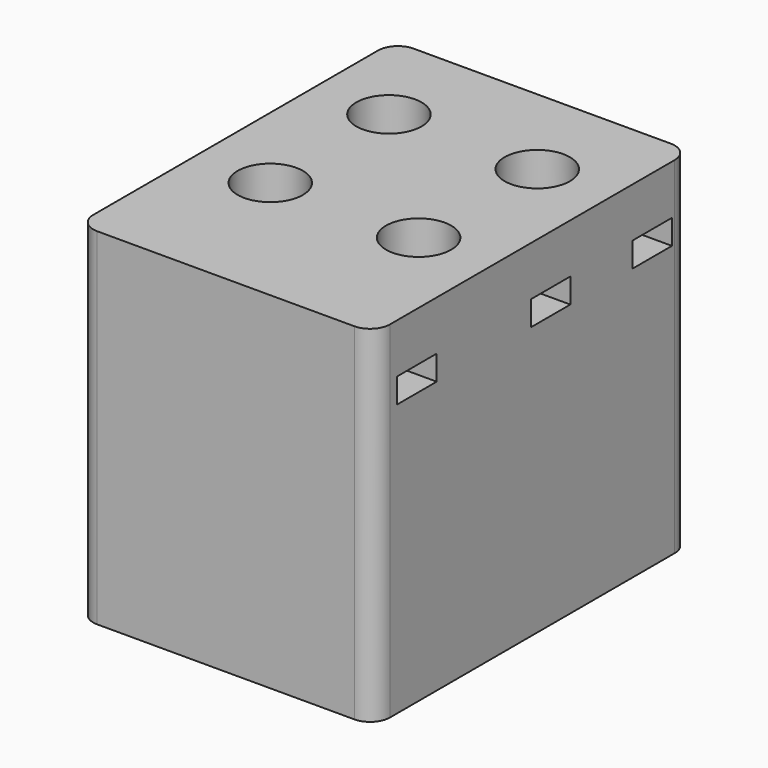
from build123d import *

# Parameters (mm, degrees)
F0_W      = 30
F0_H      = 40
F1_DEPTH  = 35
F2_R      = 3.3
F3_DEPTH  = 30
F4_W      = 5
F4_H      = 2.5
F5_DEPTH  = 30.001
F6_R      = 1.65
F7_DEPTH  = 5.001
F8_R      = 1.65
F9_DEPTH  = 5.001
F10_R     = 1.65
F11_DEPTH = 5.001
F12_R     = 1.65
F13_DEPTH = 5.001
F14_R     = 2


with BuildPart() as f1:
    # F0 (on Top) → F1 (new body)
    with BuildSketch(Plane.XY):
        with Locations((15, -20)):
            Rectangle(F0_W, F0_H)
    extrude(amount=F1_DEPTH)

    # F2 (on face) → F3 (cut)
    with BuildSketch(Plane.XY.offset(35)):
        with Locations((7.5, -10)):
            Circle(F2_R)
        with Locations((22.5, -10)):
            Circle(F2_R)
        with Locations((7.5, -25)):
            Circle(F2_R)
        with Locations((22.5, -25)):
            Circle(F2_R)
    extrude(amount=-F3_DEPTH, mode=Mode.SUBTRACT)

    # F4 (on face) → F5 (cut, through all)
    with BuildSketch(Plane(origin=(0, 0, 0), x_dir=(0, -1, 0), z_dir=(-1, 0, 0))):
        with Locations((4.849052, 28.75)):
            Rectangle(F4_W, F4_H)
        with Locations((17.696945, 28.75)):
            Rectangle(F4_W, F4_H)
        with Locations((34.58895, 28.75)):
            Rectangle(F4_W, F4_H)
    extrude(amount=-F5_DEPTH, mode=Mode.SUBTRACT)

    # F6 (on face) → F7 (cut, through all)
    with BuildSketch(Plane.XY.offset(5)):
        with Locations((7.5, -10)):
            Circle(F6_R)
    extrude(amount=-F7_DEPTH, mode=Mode.SUBTRACT)

    # F8 (on face) → F9 (cut, through all)
    with BuildSketch(Plane.XY.offset(5)):
        with Locations((7.5, -25)):
            Circle(F8_R)
    extrude(amount=-F9_DEPTH, mode=Mode.SUBTRACT)

    # F10 (on face) → F11 (cut, through all)
    with BuildSketch(Plane.XY.offset(5)):
        with Locations((22.5, -25)):
            Circle(F10_R)
    extrude(amount=-F11_DEPTH, mode=Mode.SUBTRACT)

    # F12 (on face) → F13 (cut, through all)
    with BuildSketch(Plane.XY.offset(5)):
        with Locations((22.5, -10)):
            Circle(F12_R)
    extrude(amount=-F13_DEPTH, mode=Mode.SUBTRACT)

    # F14
    f14_edges = [f1.edges().sort_by_distance(p)[0] for p in [
        (0, 0, 17.5),
        (30, 0, 17.5),
        (30, -40, 17.5),
        (0, -40, 17.5),
    ]]
    fillet(f14_edges, radius=F14_R)


solid = f1.part
